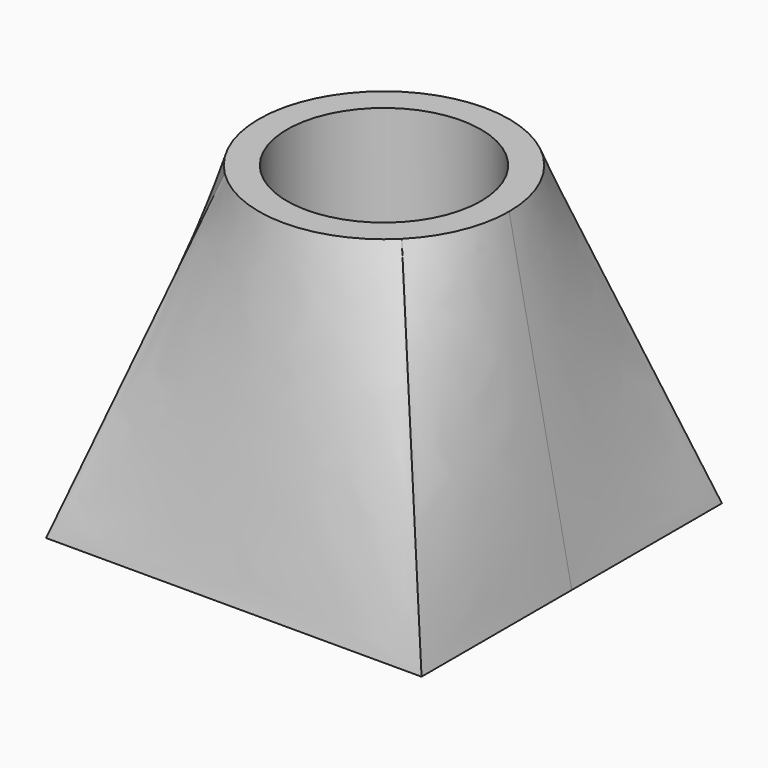
from build123d import *

# Parameters (mm, degrees)
SKETCH_W     = 12
SKETCH_H     = 12
SKETCH001_R  = 4
SKETCH002_R  = 3.1
POCKET_DEPTH = 10.001


with BuildPart() as part:
    # Sketch → AdditiveLoft section 0
    with BuildSketch(Plane.XY):
        Rectangle(SKETCH_W, SKETCH_H)
    # Sketch001 (on DatumPlane) → AdditiveLoft section 1
    with BuildSketch(Plane.XY.offset(10)):
        Circle(SKETCH001_R)
    loft()

    # Sketch002 (on DatumPlane) → Pocket (cut, through all)
    with BuildSketch(Plane.XY.offset(10)):
        Circle(SKETCH002_R)
    extrude(amount=-POCKET_DEPTH, mode=Mode.SUBTRACT)


solid = part.part
